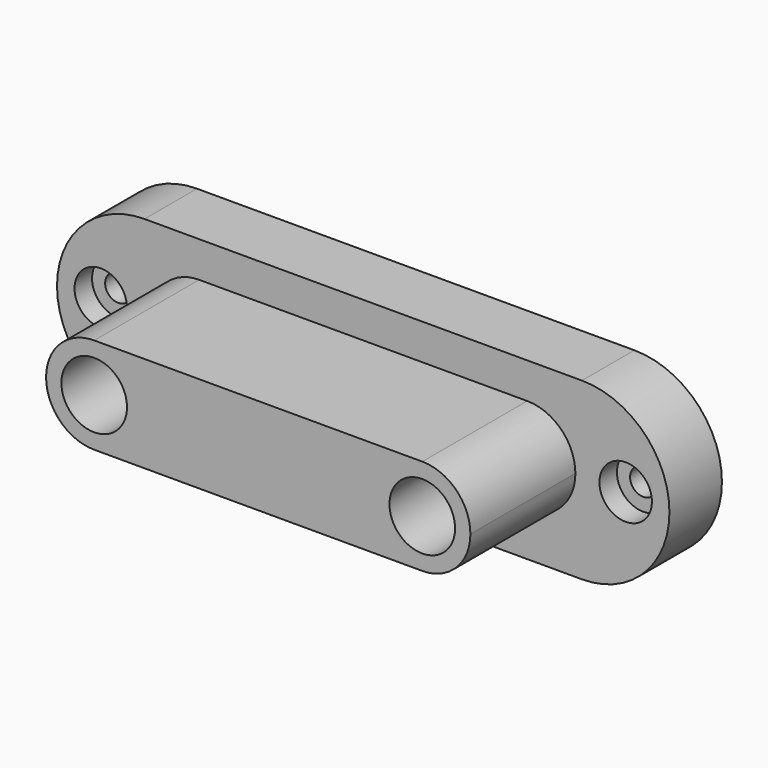
from build123d import *

# Parameters (mm, degrees)
F0_R     = 6
F1_DEPTH = 15
F2_DEPTH = 45
F0_R_2   = 3
F3_DEPTH = 10


with BuildPart() as f1:
    # F0 (on Front) → F1 (new body)
    with BuildSketch(Plane.XZ):
        with BuildLine():
            Line((9.9873682983, 18.8420231841), (-40.0126317017, 18.8420231841))
            Line((-40.0126317017, 18.8420231841), (-40.0126317017, -0.3361211642))
            Line((-40.0126317017, -0.3361211642), (-38.5126317017, -0.3361211642))
            ThreePointArc((-38.5126317017, -0.3361211642), (-35.2908062948, 7.4420534289), (-27.5126317017, 10.6638788358))
            Line((-27.5126317017, 10.6638788358), (9.9873682983, 10.6638788358))
            Line((9.9873682983, 10.6638788358), (9.9873682983, 18.8420231841))
        make_face()
        with BuildLine():
            Line((59.9873682983, 18.8420231841), (9.9873682983, 18.8420231841))
            Line((9.9873682983, 18.8420231841), (9.9873682983, 10.6638788358))
            Line((9.9873682983, 10.6638788358), (47.4873682983, 10.6638788358))
            ThreePointArc((47.4873682983, 10.6638788358), (55.2655428913, 7.4420534289), (58.4873682983, -0.3361211642))
            Line((58.4873682983, -0.3361211642), (59.9873682983, -0.3361211642))
            Line((59.9873682983, -0.3361211642), (59.9873682983, 18.8420231841))
        make_face()
        with BuildLine():
            Line((-38.5126317017, -0.3361211642), (-40.0126317017, -0.3361211642))
            Line((-40.0126317017, -0.3361211642), (-40.0126317017, -21.1579768159))
            Line((-40.0126317017, -21.1579768159), (59.9873682983, -21.1579768159))
            Line((59.9873682983, -21.1579768159), (59.9873682983, -0.3361211642))
            Line((59.9873682983, -0.3361211642), (58.4873682983, -0.3361211642))
            ThreePointArc((58.4873682983, -0.3361211642), (55.2655428913, -8.1142957572), (47.4873682983, -11.3361211642))
            Line((47.4873682983, -11.3361211642), (-27.5126317017, -11.3361211642))
            ThreePointArc((-27.5126317017, -11.3361211642), (-35.2908062948, -8.1142957572), (-38.5126317017, -0.3361211642))
        make_face()
        with BuildLine():
            ThreePointArc((59.9873682983, -21.1579768159), (79.9873682983, -1.1579768159), (59.9873682983, 18.8420231841))
            Line((59.9873682983, 18.8420231841), (59.9873682983, -0.3361211642))
            Line((59.9873682983, -0.3361211642), (59.9873682983, -21.1579768159))
        make_face()
        with BuildLine():
            ThreePointArc((75.9873682983, -0.3361211642), (69.9873682983, -6.3361211642), (63.9873682983, -0.3361211642))
            ThreePointArc((63.9873682983, -0.3361211642), (69.9873682983, 5.6638788358), (75.9873682983, -0.3361211642))
        make_face(mode=Mode.SUBTRACT)
        with BuildLine():
            Line((-40.0126317017, -0.3361211642), (-40.0126317017, 18.8420231841))
            ThreePointArc((-40.0126317017, 18.8420231841), (-60.0126317017, -1.1579768159), (-40.0126317017, -21.1579768159))
            Line((-40.0126317017, -21.1579768159), (-40.0126317017, -0.3361211642))
        make_face()
        with Locations((-50.0126317017, -0.3361211642)):
            Circle(F0_R, mode=Mode.SUBTRACT)
    extrude(amount=F1_DEPTH)

    # F0 (on Front) → F2 (join)
    with BuildSketch(Plane.XZ):
        with BuildLine():
            Line((-27.5126317017, -7.8361211642), (-27.5126317017, -11.3361211642))
            Line((-27.5126317017, -11.3361211642), (47.4873682983, -11.3361211642))
            Line((47.4873682983, -11.3361211642), (47.4873682983, -7.8361211642))
            ThreePointArc((47.4873682983, -7.8361211642), (42.1840674394, -5.6394220231), (39.9873682983, -0.3361211642))
            Line((39.9873682983, -0.3361211642), (-20.0126317017, -0.3361211642))
            ThreePointArc((-20.0126317017, -0.3361211642), (-22.2093308428, -5.6394220231), (-27.5126317017, -7.8361211642))
        make_face()
        with BuildLine():
            Line((47.4873682983, 10.6638788358), (9.9873682983, 10.6638788358))
            Line((9.9873682983, 10.6638788358), (-27.5126317017, 10.6638788358))
            Line((-27.5126317017, 10.6638788358), (-27.5126317017, 7.1638788358))
            ThreePointArc((-27.5126317017, 7.1638788358), (-22.2093308428, 4.9671796947), (-20.0126317017, -0.3361211642))
            Line((-20.0126317017, -0.3361211642), (39.9873682983, -0.3361211642))
            ThreePointArc((39.9873682983, -0.3361211642), (42.1840674394, 4.9671796947), (47.4873682983, 7.1638788358))
            Line((47.4873682983, 7.1638788358), (47.4873682983, 10.6638788358))
        make_face()
        with BuildLine():
            ThreePointArc((-27.5126317017, 10.6638788358), (-35.2908062948, 7.4420534289), (-38.5126317017, -0.3361211642))
            Line((-38.5126317017, -0.3361211642), (-35.0126317017, -0.3361211642))
            ThreePointArc((-35.0126317017, -0.3361211642), (-32.8159325606, 4.9671796947), (-27.5126317017, 7.1638788358))
            Line((-27.5126317017, 7.1638788358), (-27.5126317017, 10.6638788358))
        make_face()
        with BuildLine():
            Line((-35.0126317017, -0.3361211642), (-38.5126317017, -0.3361211642))
            ThreePointArc((-38.5126317017, -0.3361211642), (-35.2908062948, -8.1142957572), (-27.5126317017, -11.3361211642))
            Line((-27.5126317017, -11.3361211642), (-27.5126317017, -7.8361211642))
            ThreePointArc((-27.5126317017, -7.8361211642), (-32.8159325606, -5.6394220231), (-35.0126317017, -0.3361211642))
        make_face()
        with BuildLine():
            ThreePointArc((47.4873682983, -11.3361211642), (55.2655428913, -8.1142957572), (58.4873682983, -0.3361211642))
            Line((58.4873682983, -0.3361211642), (54.9873682983, -0.3361211642))
            ThreePointArc((54.9873682983, -0.3361211642), (52.7906691572, -5.6394220231), (47.4873682983, -7.8361211642))
            Line((47.4873682983, -7.8361211642), (47.4873682983, -11.3361211642))
        make_face()
        with BuildLine():
            ThreePointArc((58.4873682983, -0.3361211642), (55.2655428913, 7.4420534289), (47.4873682983, 10.6638788358))
            Line((47.4873682983, 10.6638788358), (47.4873682983, 7.1638788358))
            ThreePointArc((47.4873682983, 7.1638788358), (52.7906691572, 4.9671796947), (54.9873682983, -0.3361211642))
            Line((54.9873682983, -0.3361211642), (58.4873682983, -0.3361211642))
        make_face()
    extrude(amount=F2_DEPTH)

    # F0 (on Front) → F3 (join)
    with BuildSketch(Plane.XZ):
        with BuildLine():
            ThreePointArc((75.9873682983, -0.3361211642), (69.9873682983, 5.6638788358), (63.9873682983, -0.3361211642))
            ThreePointArc((63.9873682983, -0.3361211642), (69.9873682983, -6.3361211642), (75.9873682983, -0.3361211642))
        make_face()
        with BuildLine():
            ThreePointArc((72.9873682983, -0.3361211642), (69.9873682983, -3.3361211642), (66.9873682983, -0.3361211642))
            ThreePointArc((66.9873682983, -0.3361211642), (69.9873682983, 2.6638788358), (72.9873682983, -0.3361211642))
        make_face(mode=Mode.SUBTRACT)
        with Locations((-50.0126317017, -0.3361211642)):
            Circle(F0_R)
        with Locations((-50.0126317017, -0.3361211642)):
            Circle(F0_R_2, mode=Mode.SUBTRACT)
    extrude(amount=F3_DEPTH)


solid = f1.part
